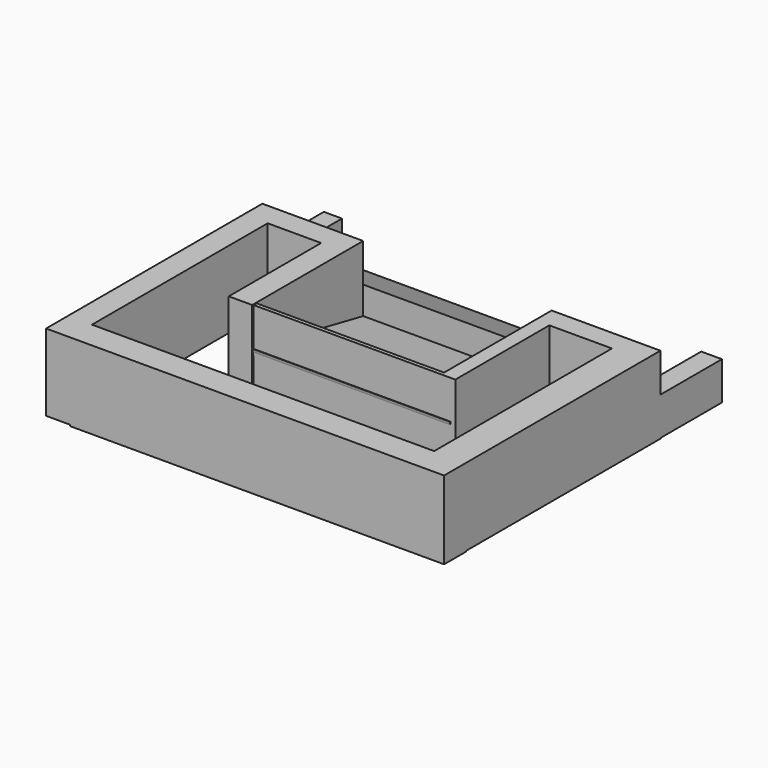
from build123d import *

# Parameters (mm, degrees)
F0_W      = 7.9096108675
F0_H      = 89.265525341
F1_DEPTH  = 25.4
F2_W      = 9.0597718954
F2_H      = 25.8198998213
F3_DEPTH  = 123.5302612185
F4_W      = 10.519862175
F4_H      = 25.5959949732
F5_DEPTH  = 80.2284926176
F6_W      = 6.8411193788
F6_H      = 25.5959949732
F7_DEPTH  = 25.4
F8_W      = 7.6834112406
F8_H      = 25.4
F9_DEPTH  = 25.4
F10_W     = 4.7150052428
F10_H     = 25.7374218941
F11_DEPTH = 38.8002488762
F12_W     = 1.2486185879
F12_H     = 25.4
F13_DEPTH = 61.9014054537
F14_W     = 7.7484271765
F14_H     = 25.4
F15_DEPTH = 38.1346493959
F16_W     = 44.0207533538
F16_H     = 3.7513971329
F17_DEPTH = 65.4726680368
F19_DEPTH = 65.2894191444
F20_W     = 5.9870034456
F20_H     = 12.7
F21_DEPTH = 25.4
F23_DEPTH = 118.6141502112
F24_W     = 6.8387184292
F24_H     = 12.6020025134
F25_DEPTH = 25.4


with BuildPart() as f1:
    # F0 (on Top) → F1 (new body)
    with BuildSketch(Plane.XY):
        with Locations((-61.7658346891, -0.2627521753)):
            Rectangle(F0_W, F0_H)
    extrude(amount=F1_DEPTH)

    # F2 (on face) → F3 (join)
    with BuildSketch(Plane.YZ.offset(-57.8110292554)):
        with Locations((-40.3656288981, 12.4900500894)):
            Rectangle(F2_W, F2_H)
    extrude(amount=F3_DEPTH)

    # F4 (on face) → F5 (join)
    with BuildSketch(Plane(origin=(0, -35.8357429504, 0), x_dir=(-1, 0, 0), z_dir=(0, 1, 0))):
        with Locations((-60.4593008757, 12.6020025134)):
            Rectangle(F4_W, F4_H)
    extrude(amount=F5_DEPTH)

    # F6 (on face) → F7 (join)
    with BuildSketch(Plane(origin=(55.1993697882, 0, 0), x_dir=(0, -1, 0), z_dir=(-1, 0, 0))):
        with Locations((-40.9721899778, 12.6020025134)):
            Rectangle(F6_W, F6_H)
    extrude(amount=F7_DEPTH)

    # F8 (on face) → F9 (join)
    with BuildSketch(Plane.YZ.offset(-57.8110292554)):
        with Locations((40.5283048749, 12.7)):
            Rectangle(F8_W, F8_H)
    extrude(amount=F9_DEPTH)

    # F10 (on face) → F11 (join)
    with BuildSketch(Plane.XZ.offset(-37.5516302884)):
        with Locations((32.1568724096, 12.531289053)):
            Rectangle(F10_W, F10_H)
    extrude(amount=F11_DEPTH)

    # F12 (on face) → F13 (join)
    with BuildSketch(Plane(origin=(29.7993697882, 0, 0), x_dir=(0, -1, 0), z_dir=(-1, 0, 0))):
        with Locations((0.6243092939, 12.7)):
            Rectangle(F12_W, F12_H)
    extrude(amount=F13_DEPTH)

    # F14 (on face) → F15 (join)
    with BuildSketch(Plane.XZ.offset(-36.6865992546)):
        with Locations((-36.2852428436, 12.7)):
            Rectangle(F14_W, F14_H)
    extrude(amount=F15_DEPTH)

    # F16 (on face) → F17 (join)
    with BuildSketch(Plane(origin=(29.7993697882, 0, 0), x_dir=(0, -1, 0), z_dir=(-1, 0, 0))):
        with Locations((-22.3823729903, 1.6797035933)):
            Rectangle(F16_W, F16_H)
    extrude(amount=F17_DEPTH)

    # F18 (on face) → F19 (join)
    with BuildSketch(Plane.YZ.offset(-32.4110292554)):
        Polygon((44.3700104952, 3.5554021597), (-1.4480501413, 12.7), (0.3719963133, 3.5554021597), align=None)
    extrude(amount=F19_DEPTH)

    # F20 (on face) → F21 (join)
    with BuildSketch(Plane(origin=(0, 44.3700104952, 0), x_dir=(-1, 0, 0), z_dir=(0, 1, 0))):
        with Locations((62.7271384001, 6.35)):
            Rectangle(F20_W, F20_H)
    extrude(amount=F21_DEPTH)

    # F22 (on face) → F23 (join)
    with BuildSketch(Plane.YZ.offset(-59.7336366773)):
        Polygon((69.7700104952, 0), (44.3700104952, 12.7), (44.3700104952, 0), align=None)
    extrude(amount=F23_DEPTH)

    # F24 (on face) → F25 (join)
    with BuildSketch(Plane(origin=(0, 44.3927496672, 0), x_dir=(-1, 0, 0), z_dir=(0, 1, 0))):
        with Locations((-62.2998727486, 6.3010012567)):
            Rectangle(F24_W, F24_H)
    extrude(amount=F25_DEPTH)


solid = f1.part
